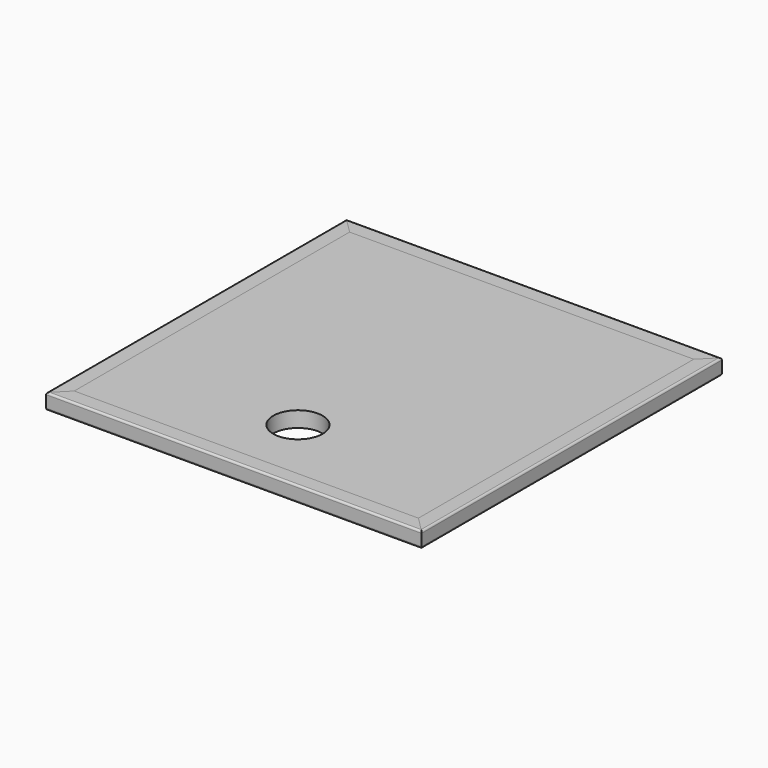
from build123d import *

# Parameters (mm, degrees)
F0_W      = 558.8
F0_H      = 558.8
F1_DEPTH  = 25.4
F3_D      = 8
F3_DEPTH  = 22.225
F3_TIP    = 2.4034424761
F4_R      = 40
F5_DEPTH  = 25.401
F7_DEPTH  = 25.4
F8_R      = 3.175
F10_ANGLE = -90


with BuildPart() as f1:
    # F0 (on Top) → F1 (new body)
    with BuildSketch(Plane.XY):
        Rectangle(F0_W, F0_H)
    extrude(amount=F1_DEPTH)

    # F3
    with Locations(Plane(origin=(0, 0, 0), x_dir=(1, 0, 0), z_dir=(0, 0, -1))):
        with Locations((127, 238.125), (127, 111.125), (238.125, 127), (238.125, -127), (127, -238.125), (-127, -238.125), (-238.125, -127), (-238.125, 127), (-127, 111.125), (-127, 238.125)):
            Hole(F3_D / 2, depth=F3_DEPTH)
            with Locations((0, 0, -(F3_DEPTH + F3_TIP / 2))):  # 118° drill point
                Cone(0, F3_D / 2, F3_TIP, mode=Mode.SUBTRACT)

    # F4 (on face) → F5 (cut, through all)
    with BuildSketch(Plane.XY.offset(25.4)):
        with Locations((0, -174.625)):
            Circle(F4_R)
    extrude(amount=-F5_DEPTH, mode=Mode.SUBTRACT)


with BuildPart() as f7:
    # F6 (on face) → F7 (new body)
    with BuildSketch(Plane.XY.offset(25.4)):
        Polygon((279.4, 279.4), (279.4, -279.4), (304.8, -304.8), (304.8, 304.8), align=None)
    extrude(amount=-F7_DEPTH)

    # F8
    f8_edges = [f7.edges().sort_by_distance(p)[0] for p in [
        (304.8, 0, 25.4),
        (304.8, 0, 0),
    ]]
    fillet(f8_edges, radius=F8_R)


with BuildPart() as f9_1:
    # F9: instance of F7
    add(f7.part.mirror(Plane.YZ))


with BuildPart() as f10_1:
    # F10: copy of F7
    add(f7.part.rotate(Axis((304.8, -304.8, 12.7), (0, 0, 1)), F10_ANGLE))


with BuildPart() as f10_1_1:
    # F11: moved
    add(f10_1.part.moved(Location((-609.6, 0, 0))))


with BuildPart() as f12_1:
    # F12: instance of F10_1
    add(f10_1_1.part.mirror(Plane.XZ))


solid = Compound([f1.part, f7.part, f9_1.part, f10_1_1.part, f12_1.part])
